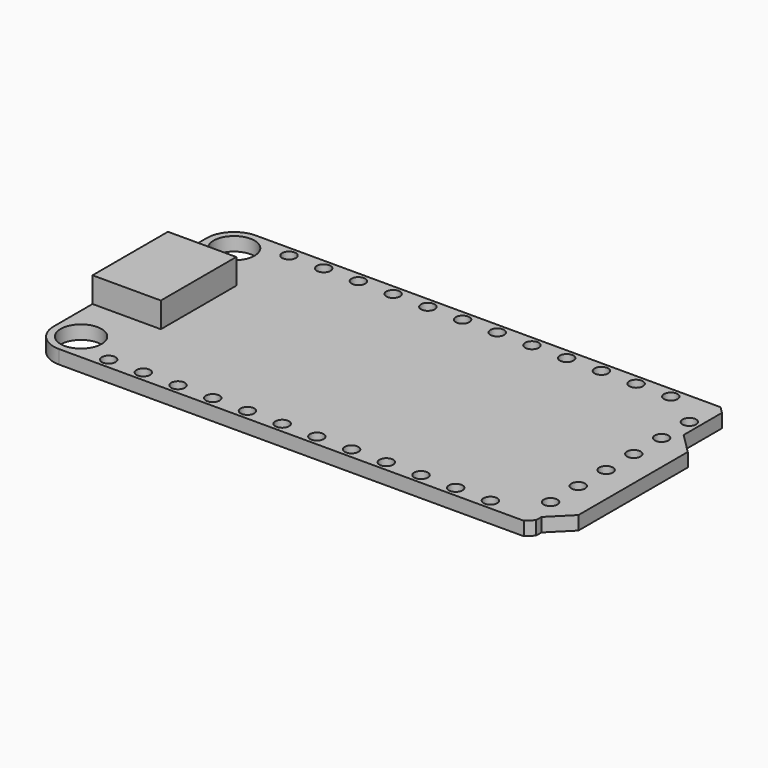
from build123d import *

# Parameters (mm, degrees)
F1_DEPTH = 1
F2_R     = 0.5
F3_DEPTH = 1.001
F4_SIZE  = 0.5
F5_R     = 2
F6_R     = 1.5
F7_DEPTH = 1.001
F8_W     = 5
F8_H     = 6.9
F9_DEPTH = 1.85


with BuildPart() as f1:
    # F0 (on Top) → F1 (new body)
    with BuildSketch(Plane.XY):
        Polygon((17.5, 5), (17.5, 9), (-19, 9), (-19, -9), (17.5, -9), (17.5, -8), (19, -6.5), (19, 3.5), align=None)
    extrude(amount=F1_DEPTH)

    # F2 (on face) → F3 (cut, through all)
    with BuildSketch(Plane.XY.offset(1)):
        with Locations((13.96, -8.25)):
            Circle(F2_R)
        with Locations((11.42, -8.25)):
            Circle(F2_R)
        with Locations((8.88, -8.25)):
            Circle(F2_R)
        with Locations((6.34, -8.25)):
            Circle(F2_R)
        with Locations((3.8, -8.25)):
            Circle(F2_R)
        with Locations((1.26, -8.25)):
            Circle(F2_R)
        with Locations((-1.28, -8.25)):
            Circle(F2_R)
        with Locations((-3.82, -8.25)):
            Circle(F2_R)
        with Locations((-6.36, -8.25)):
            Circle(F2_R)
        with Locations((-8.9, -8.25)):
            Circle(F2_R)
        with Locations((-11.44, -8.25)):
            Circle(F2_R)
        with Locations((-13.98, -8.25)):
            Circle(F2_R)
        with Locations((13.96, 8.25)):
            Circle(F2_R)
        with Locations((11.42, 8.25)):
            Circle(F2_R)
        with Locations((8.88, 8.25)):
            Circle(F2_R)
        with Locations((-1.28, 8.25)):
            Circle(F2_R)
        with Locations((1.26, 8.25)):
            Circle(F2_R)
        with Locations((-6.36, 8.25)):
            Circle(F2_R)
        with Locations((-8.9, 8.25)):
            Circle(F2_R)
        with Locations((-3.82, 8.25)):
            Circle(F2_R)
        with Locations((3.8, 8.25)):
            Circle(F2_R)
        with Locations((6.34, 8.25)):
            Circle(F2_R)
        with Locations((-13.98, 8.25)):
            Circle(F2_R)
        with Locations((-11.44, 8.25)):
            Circle(F2_R)
        with Locations((16.75, 6.46)):
            Circle(F2_R)
        with Locations((16.75, 3.92)):
            Circle(F2_R)
        with Locations((16.75, 1.38)):
            Circle(F2_R)
        with Locations((16.75, -1.16)):
            Circle(F2_R)
        with Locations((16.75, -3.7)):
            Circle(F2_R)
        with Locations((16.75, -6.24)):
            Circle(F2_R)
    extrude(amount=-F3_DEPTH, mode=Mode.SUBTRACT)

    # F4
    f4_edges = [f1.edges().sort_by_distance(p)[0] for p in [
        (17.5, 9, 0.5),
        (17.5, -9, 0.5),
    ]]
    chamfer(f4_edges, length=F4_SIZE)

    # F5
    f5_edges = [f1.edges().sort_by_distance(p)[0] for p in [
        (-19, -9, 0.5),
        (-19, 9, 0.5),
    ]]
    fillet(f5_edges, radius=F5_R)

    # F6 (on face) → F7 (cut, through all)
    with BuildSketch(Plane.XY.offset(1)):
        with Locations((-17, 7)):
            Circle(F6_R)
        with Locations((-17, -7)):
            Circle(F6_R)
    extrude(amount=-F7_DEPTH, mode=Mode.SUBTRACT)

    # F8 (on face) → F9 (join)
    with BuildSketch(Plane.XY.offset(1)):
        with Locations((-16.5, 0)):
            Rectangle(F8_W, F8_H)
    extrude(amount=F9_DEPTH)


solid = f1.part
